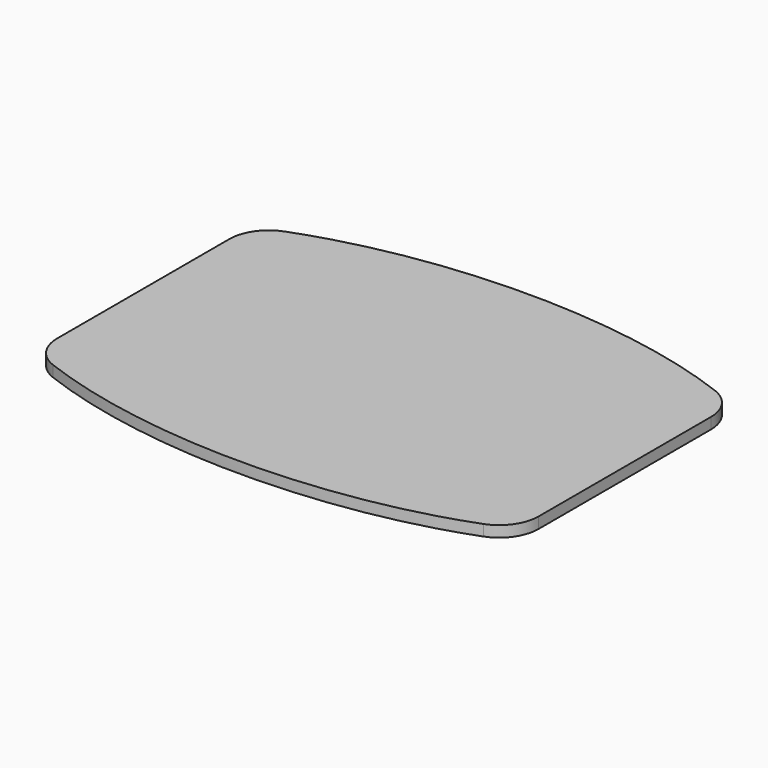
from build123d import *

# Parameters (mm, degrees)
F1_DEPTH = 7


with BuildPart() as f1:
    # F0 (on Top) → F1 (new body)
    with BuildSketch(Plane.XY):
        with BuildLine():
            ThreePointArc((136.3574169857, -91.5464991998), (148.072255888, -82.3731816378), (152.5, -68.1681723918))
            Line((152.5, -68.1681723918), (152.5, 68.1681723918))
            ThreePointArc((152.5, 68.1681723918), (148.072255888, 82.3731816378), (136.3574169857, 91.5464991998))
            add(Edge.make_bspline(
                [(136.3574169857, 91.5464991998), (0, 143.2086438541), (-136.3574169857, 91.5464991998)],
                knots=[0.926516862, 0.926516862, 0.926516862, 2.2150757916, 2.2150757916, 2.2150757916], degree=2, weights=[1, 0.7995327441, 1]))
            ThreePointArc((-136.3574169857, 91.5464991998), (-148.072255888, 82.3731816378), (-152.5, 68.1681723918))
            Line((-152.5, 68.1681723918), (-152.5, -68.1681723918))
            ThreePointArc((-152.5, -68.1681723918), (-148.072255888, -82.3731816378), (-136.3574169857, -91.5464991998))
            add(Edge.make_bspline(
                [(-136.357416964, -91.546499208), (1.69e-08, -143.2086438477), (136.3574169857, -91.5464991998)],
                knots=[4.0681095157, 4.0681095157, 4.0681095157, 5.3566684452, 5.3566684452, 5.3566684452], degree=2, weights=[1, 0.7995327441, 1]))
        make_face()
    extrude(amount=F1_DEPTH)


solid = f1.part
